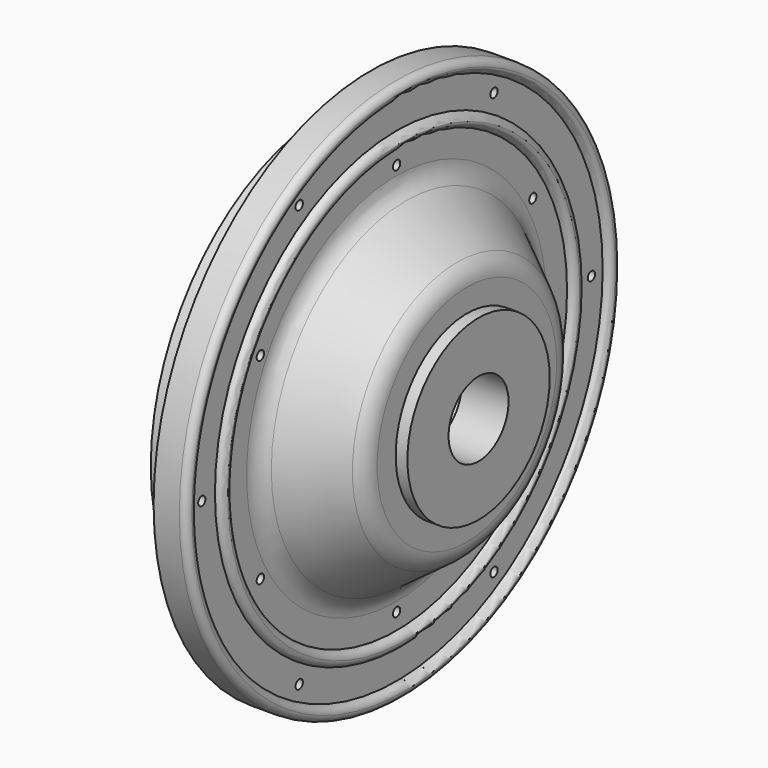
from build123d import *

# Parameters (mm, degrees)
F3_R     = 0.975
F4_DEPTH = 6


with BuildPart() as f1:
    # F0 (on Top) → F1 (revolve)
    with BuildSketch(Plane.XY):
        with BuildLine():
            Line((0, 47.5), (0, 34))
            Line((0, 34), (3, 34))
            Line((3, 34), (3, 26.5))
            Line((3, 26.5), (18, 26.5))
            Line((18, 26.5), (18, 21.5))
            Line((18, 21.5), (22, 21.5))
            Line((22, 21.5), (22, 8))
            Line((22, 8), (32, 8))
            Line((32, 8), (32, 19))
            Line((32, 19), (29.5, 19))
            Line((29.5, 19), (29.5, 23.966308))
            ThreePointArc((29.5, 23.966308), (28.96005, 26.226387), (27.456818, 27.998333))
            Line((27.456818, 27.998333), (16.543182, 36.001667))
            ThreePointArc((16.543182, 36.001667), (15.03995, 37.773613), (14.5, 40.033692))
            Line((14.5, 40.033692), (14.5, 45.5))
            ThreePointArc((14.5, 45.5), (15.56066, 45.93934), (16, 47))
            ThreePointArc((16, 47), (15.56066, 48.06066), (14.5, 48.5))
            Line((14.5, 48.5), (14.5, 55))
            ThreePointArc((14.5, 55), (15.56066, 55.43934), (16, 56.5))
            ThreePointArc((16, 56.5), (15.56066, 57.56066), (14.5, 58))
            Line((14.5, 58), (9, 58))
            Line((9, 58), (9, 47.5))
            Line((9, 47.5), (0, 47.5))
        make_face()
    revolve(axis=Axis((14.75, 0, 0), (1, 0, 0)))

    # F3 (on offset) → F4 (cut)
    with BuildSketch(Plane.YZ.offset(14.5)):
        with Locations((0, -42)):
            Circle(F3_R)
        with Locations((36.373067, -21)):
            Circle(F3_R)
        with Locations((36.373067, 21)):
            Circle(F3_R)
        with Locations((0, 42)):
            Circle(F3_R)
        with Locations((-36.373067, 21)):
            Circle(F3_R)
        with Locations((-36.373067, -21)):
            Circle(F3_R)
        with Locations((52, 0)):
            Circle(F3_R)
        with Locations((26, 45.033321)):
            Circle(F3_R)
        with Locations((-26, 45.033321)):
            Circle(F3_R)
        with Locations((-52, 0)):
            Circle(F3_R)
        with Locations((-26, -45.033321)):
            Circle(F3_R)
        with Locations((26, -45.033321)):
            Circle(F3_R)
    extrude(amount=-F4_DEPTH, mode=Mode.SUBTRACT)


solid = f1.part
